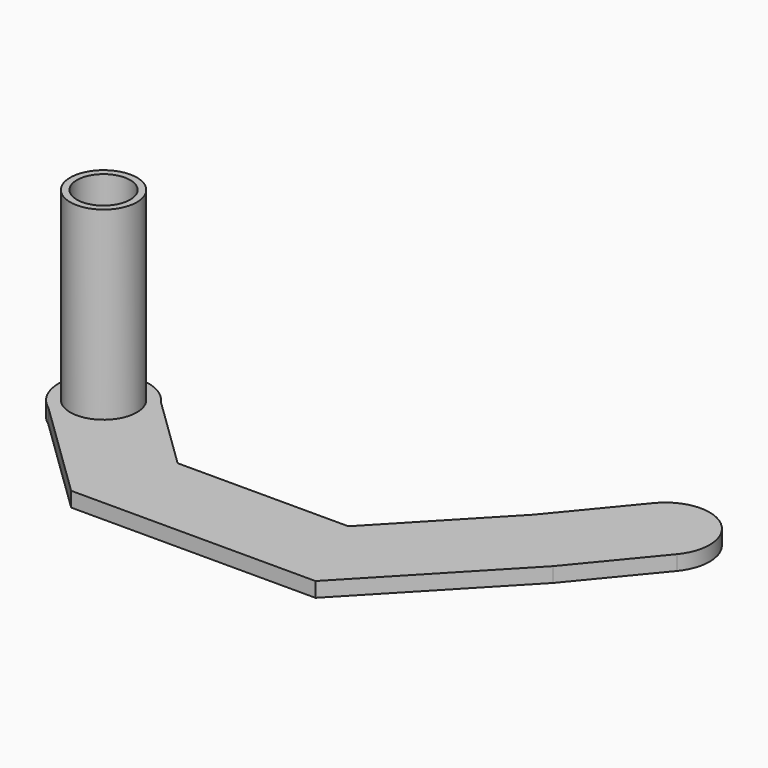
from build123d import *

# Parameters (mm, degrees)
F0_R     = 4.5069979882
F0_R_2   = 3.6
F1_DEPTH = 2
F2_R     = 4.5084392358
F2_R_2   = 3.6
F3_DEPTH = 25


with BuildPart() as f1:
    # F0 (on Top) → F1 (new body)
    with BuildSketch(Plane.XY):
        with BuildLine():
            Line((15.1170478072, -6.3866931466), (5.0292332489, 3.4026836074))
            ThreePointArc((5.0292332489, 3.4026836074), (-4.2623022023, 4.324837886), (-3.4755694127, -4.9791425026))
            Line((-3.4755694127, -4.9791425026), (10.2768307552, -18.3246918023))
            Line((10.2768307552, -18.3246918023), (43.2957708836, -18.3246918023))
            Line((43.2957708836, -18.3246918023), (60.7486367226, 0))
            Line((60.7486367226, 0), (69.2392289639, 10.2917216718))
            ThreePointArc((69.2392289639, 10.2917216718), (68.4334338515, 18.6946140422), (60.0305414811, 17.8888189299))
            Line((60.0305414811, 17.8888189299), (51.8106704537, 7.9252472039))
            Line((51.8106704537, 7.9252472039), (38.1796431203, -6.3866931466))
            Line((38.1796431203, -6.3866931466), (15.1170478072, -6.3866931466))
        make_face()
        Circle(F0_R, mode=Mode.SUBTRACT)
        Circle(F0_R)
        Circle(F0_R_2, mode=Mode.SUBTRACT)
        Circle(F0_R_2)
    extrude(amount=F1_DEPTH)

    # F2 (on face) → F3 (join)
    with BuildSketch(Plane.XY.offset(2)):
        Circle(F2_R)
        Circle(F2_R_2, mode=Mode.SUBTRACT)
    extrude(amount=F3_DEPTH)


solid = f1.part
